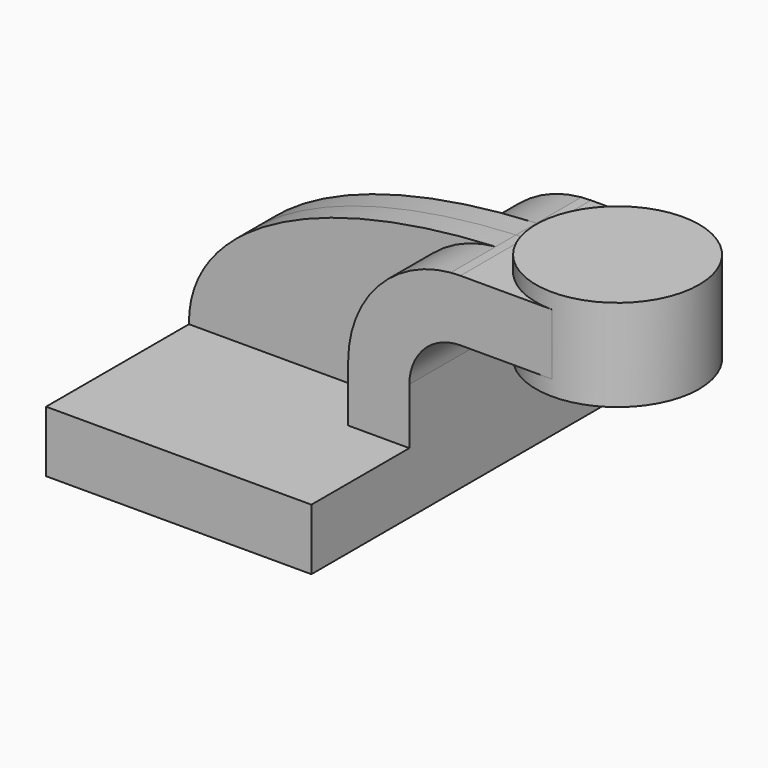
from build123d import *

# Parameters (mm, degrees)
F1_DEPTH = 63.5
F0_W     = 25.4
F0_H     = 19.05
F2_DEPTH = 25.4
F3_DEPTH = 7.9375


with BuildPart() as f1:
    # F0 (on Front) → F1 (new body, symmetric)
    with BuildSketch(Plane.XZ):
        Polygon((41.275, -9.525), (41.275, 9.525), (22.225, 9.525), (-41.275, 9.525), (-41.275, -9.525), align=None)
    extrude(amount=F1_DEPTH, both=True)

    # F0 (on Front) → F2 (join, symmetric)
    with BuildSketch(Plane.XZ):
        with BuildLine():
            Line((22.225, 9.525), (41.275, 9.525))
            Line((41.275, 9.525), (41.275, 26.9875))
            ThreePointArc((41.275, 26.9875), (45.9246798487, 38.2128201513), (57.15, 42.8625))
            Line((57.15, 42.8625), (60.325, 42.8625))
            Line((60.325, 42.8625), (60.325, 61.9125))
            Line((60.325, 61.9125), (57.15, 61.9125))
            add(Edge.make_bspline(
                [(54.1562335502, 61.783950788), (55.1478189239, 61.8321045059), (56.1457632688, 61.8749746399), (57.15, 61.9125)],
                knots=[109.6652027071, 109.6652027071, 109.6652027071, 109.6652027071, 111.4985685166, 111.4985685166, 111.4985685166, 111.4985685166], degree=3))
            ThreePointArc((54.1562335502, 61.783950788), (31.4175990407, 50.6010377669), (22.225, 26.9875))
            Line((22.225, 26.9875), (22.225, 9.525))
        make_face()
        with Locations((73.025, 52.3875)):
            Rectangle(F0_W, F0_H)
    extrude(amount=F2_DEPTH, both=True)

    # F0 (on Front) → F3 (join, symmetric)
    with BuildSketch(Plane.XZ):
        with BuildLine():
            Line((-41.275, 9.525), (22.225, 9.525))
            Line((22.225, 9.525), (22.225, 26.9875))
            ThreePointArc((22.225, 26.9875), (31.4175990407, 50.6010377669), (54.1562335502, 61.783950788))
            add(Edge.make_bspline(
                [(-41.275, 9.525), (-41.7173976774, 37.118570419), (-5.1567581261, 58.9035724155), (54.1562335502, 61.783950788)],
                knots=[0, 0, 0, 0, 109.6652027071, 109.6652027071, 109.6652027071, 109.6652027071], degree=3))
        make_face()
    extrude(amount=F3_DEPTH, both=True)

    # F0 (on Front) → F4 (revolve)
    with BuildSketch(Plane.XZ):
        Polygon((85.725, 61.9125), (85.725, 42.8625), (85.725, 38.1), (111.125, 38.1), (111.125, 66.675), (85.725, 66.675), align=None)
    revolve(axis=Axis((85.725, 0, 52.3875), (0, 0, 1)))


solid = f1.part
